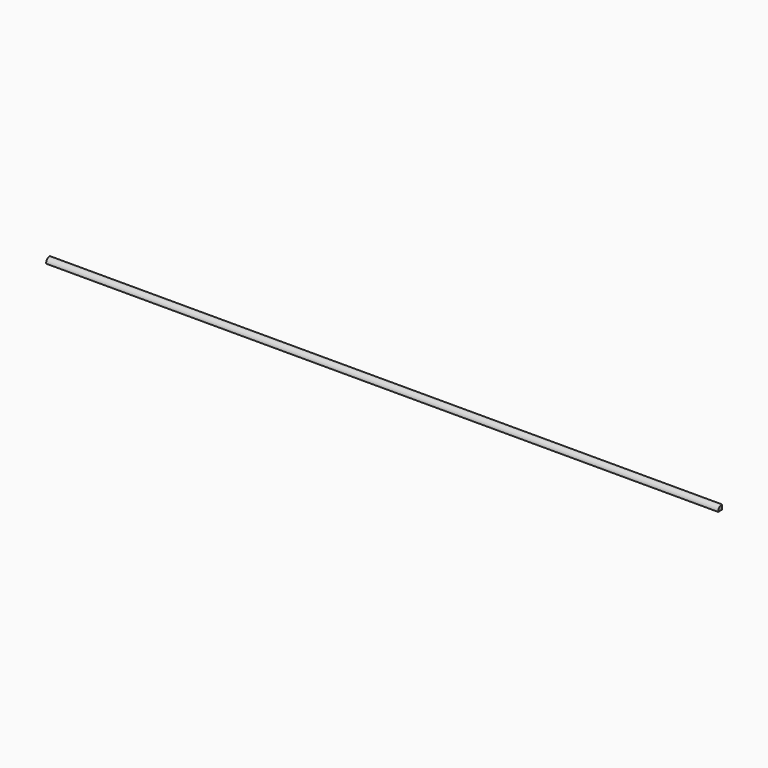
from build123d import *

# Parameters (mm, degrees)
F1_DEPTH = 177


with BuildPart() as f1:
    # F0 (on Right) → F1 (new body)
    with BuildSketch(Plane.YZ):
        with BuildLine():
            Line((0, 0), (0, 1.25))
            ThreePointArc((0, 1.25), (-0.883883, 0.883883), (-1.25, 0))
            Line((-1.25, 0), (0, 0))
        make_face()
    extrude(amount=F1_DEPTH)


solid = f1.part
